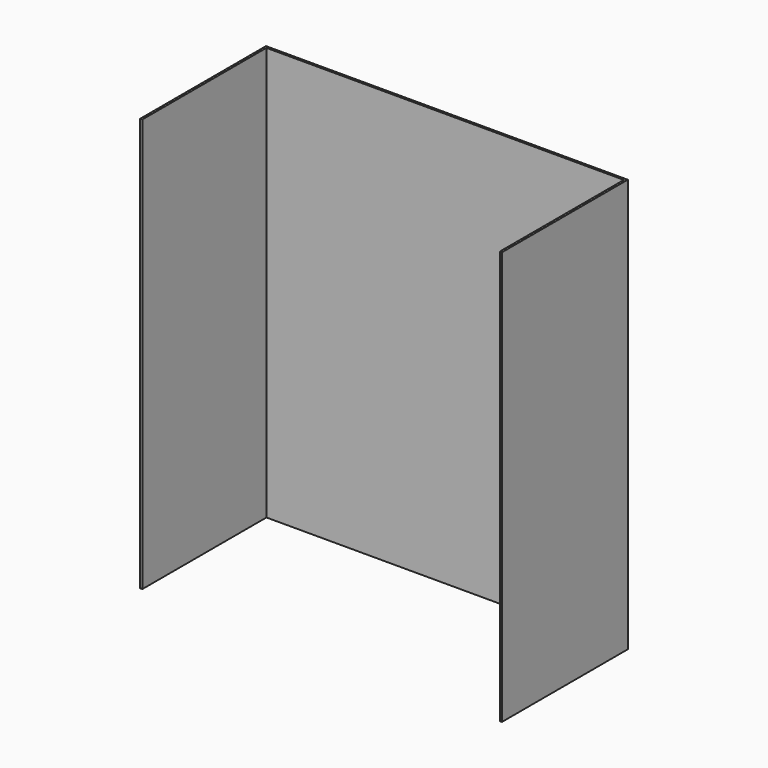
from build123d import *

# Parameters (mm, degrees)
F0_W     = 2133.6
F0_H     = 927.1
F1_DEPTH = 2438.4
F2_T     = -12.7


with BuildPart() as f1:
    # F0 (on Top) → F1 (new body)
    with BuildSketch(Plane.XY):
        with Locations((14.874363, -123.510646)):
            Rectangle(F0_W, F0_H)
    extrude(amount=-F1_DEPTH)

    # F2
    f2_openings = [f1.faces().sort_by_distance(p)[0] for p in [
        (14.874363, -123.510646, 0),
        (14.874363, -587.060646, -1219.2),
        (14.874363, -123.510646, -2438.4),
    ]]
    offset(amount=F2_T, openings=f2_openings)


solid = f1.part
